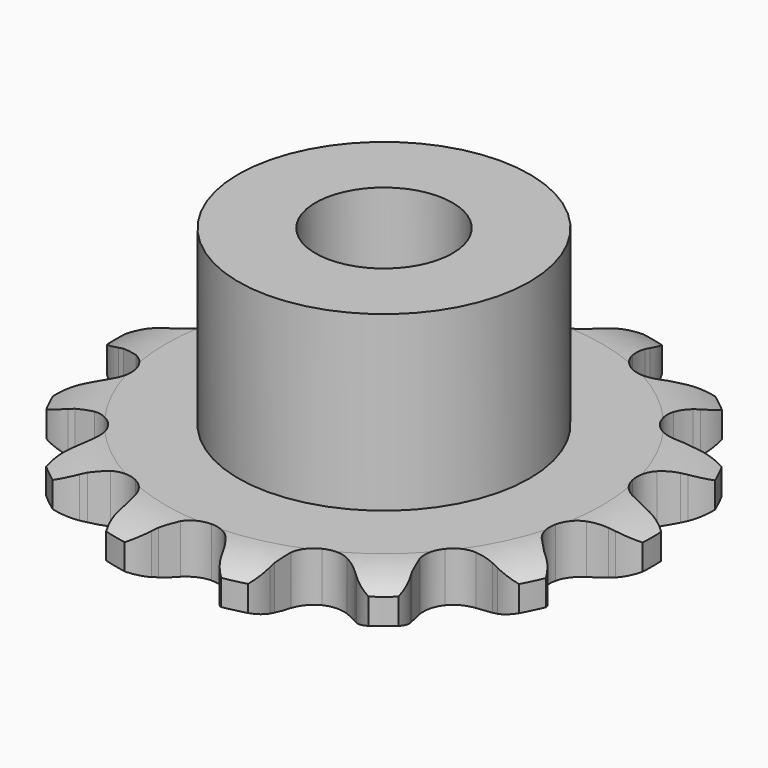
from build123d import *

# Parameters (mm, degrees)
PAD_DEPTH         = 2.9
SKETCH001_R       = 8.5
PAD001_DEPTH      = 13
SKETCH002_R       = 4
POCKET_DEPTH      = 0.0010001
POCKET_DEPTH_BACK = 13.001


with BuildPart() as part:
    # Sprocket → Pad (new body)
    with BuildSketch(Plane.XY):
        with BuildLine():
            ThreePointArc((-3.6126284311, 15.8279593349), (-2.6776738148, 15.2786261276), (-2.0294363846, 14.4093187359))
            Line((-2.0294363846, 14.4093187359), (-1.8775252933, 14.0877408394))
            ThreePointArc((-1.8775252933, 14.0877408394), (-1.6225737693, 13.6237117178), (-1.312971691, 13.1942121738))
            ThreePointArc((-1.312971691, 13.1942121738), (-0.7264776979, 12.7354038267), (0, 12.5719704836))
            ThreePointArc((0, 12.5719704836), (0.7264776979, 12.7354038267), (1.312971691, 13.1942121738))
            ThreePointArc((1.312971691, 13.1942121738), (1.6225737693, 13.6237117178), (1.8775252933, 14.0877408394))
            Line((1.8775252933, 14.0877408394), (2.0294363846, 14.4093187359))
            ThreePointArc((2.0294363846, 14.4093187359), (2.6776738148, 15.2786261276), (3.6126284311, 15.8279593349))
            ThreePointArc((3.6126284311, 15.8279593349), (4.2166466873, 14.9273656122), (4.4235100893, 13.8628870356))
            Line((4.4235100893, 13.8628870356), (4.4208498331, 13.5072436099))
            ThreePointArc((4.4208498331, 13.5072436099), (4.4492185287, 12.978548497), (4.5418074947, 12.4572514717))
            ThreePointArc((4.5418074947, 12.4572514717), (4.8711508425, 11.789409228), (5.4547735615, 11.3269540139))
            ThreePointArc((5.4547735615, 11.3269540139), (6.1802184206, 11.1589955081), (6.9077007307, 11.3178973384))
            Line((6.9077007307, 11.3178973384), (7.8040335091, 11.8779882208))
            ThreePointArc((7.8040335091, 11.8779882208), (7.9399352126, 11.9927329972), (8.0804280932, 12.1018081419))
            ThreePointArc((8.0804280932, 12.1018081419), (9.0416481784, 12.6037673584), (10.1223599266, 12.6930378714))
            ThreePointArc((10.1223599266, 12.6930378714), (10.2758085992, 11.6195572652), (10.0003261393, 10.5707405407))
            Line((10.0003261393, 10.5707405407), (9.843621432, 10.251471128))
            ThreePointArc((9.843621432, 10.251471128), (9.6397885311, 9.762824575), (9.4970260044, 9.2529793375))
            ThreePointArc((9.4970260044, 9.2529793375), (9.5039882178, 8.5083775441), (9.8291623207, 7.8384953858))
            ThreePointArc((9.8291623207, 7.8384953858), (10.4098910896, 7.372411273), (11.1342749233, 7.1999341303))
            Line((11.1342749233, 7.1999341303), (12.1848571782, 7.3156543611))
            ThreePointArc((12.1848571782, 7.3156543611), (12.3570862747, 7.3600702932), (12.530991918, 7.3973860264))
            ThreePointArc((12.530991918, 7.3973860264), (13.6148132317, 7.4325778888), (14.6272338959, 7.0441045876))
            ThreePointArc((14.6272338959, 7.0441045876), (14.2997205935, 6.0103530972), (13.5964549515, 5.1849292402))
            Line((13.5964549515, 5.1849292402), (13.3167430821, 4.9652690632))
            ThreePointArc((13.3167430821, 4.9652690632), (12.9210801906, 4.6134535127), (12.5712420405, 4.2160411651))
            ThreePointArc((12.5712420405, 4.2160411651), (12.2544441677, 3.5421573391), (12.2567649356, 2.7975266137))
            ThreePointArc((12.2567649356, 2.7975266137), (12.5777571594, 2.1256305686), (13.1555694144, 1.6559356663))
            Line((13.1555694144, 1.6559356663), (14.1523204457, 1.3043654346))
            ThreePointArc((14.1523204457, 1.3043654346), (14.3267648505, 1.2696554022), (14.4996391109, 1.2278208854))
            ThreePointArc((14.4996391109, 1.2278208854), (15.4913975497, 0.7892752137), (16.235004801, 0))
            ThreePointArc((16.235004801, 0), (15.4913975497, -0.7892752137), (14.4996391109, -1.2278208854))
            Line((14.4996391109, -1.2278208854), (14.1523204457, -1.3043654346))
            ThreePointArc((14.1523204457, -1.3043654346), (13.6431934518, -1.4496685981), (13.1555694144, -1.6559356663))
            ThreePointArc((13.1555694144, -1.6559356663), (12.5777571594, -2.1256305686), (12.2567649356, -2.7975266137))
            ThreePointArc((12.2567649356, -2.7975266137), (12.2544441677, -3.5421573391), (12.5712420405, -4.2160411651))
            Line((12.5712420405, -4.2160411651), (13.3167430821, -4.9652690632))
            ThreePointArc((13.3167430821, -4.9652690632), (13.4588519413, -5.0722303124), (13.5964549515, -5.1849292402))
            ThreePointArc((13.5964549515, -5.1849292402), (14.2997205935, -6.0103530972), (14.6272338959, -7.0441045876))
            ThreePointArc((14.6272338959, -7.0441045876), (13.6148132317, -7.4325778888), (12.530991918, -7.3973860264))
            Line((12.530991918, -7.3973860264), (12.1848571782, -7.3156543611))
            ThreePointArc((12.1848571782, -7.3156543611), (11.663104927, -7.225666064), (11.1342749233, -7.1999341303))
            ThreePointArc((11.1342749233, -7.1999341303), (10.4098910896, -7.372411273), (9.8291623207, -7.8384953858))
            ThreePointArc((9.8291623207, -7.8384953858), (9.5039882178, -8.5083775441), (9.4970260044, -9.2529793375))
            Line((9.4970260044, -9.2529793375), (9.843621432, -10.251471128))
            ThreePointArc((9.843621432, -10.251471128), (9.9252483432, -10.4094986069), (10.0003261393, -10.5707405407))
            ThreePointArc((10.0003261393, -10.5707405407), (10.2758085992, -11.6195572652), (10.1223599266, -12.6930378714))
            ThreePointArc((10.1223599266, -12.6930378714), (9.0416481784, -12.6037673584), (8.0804280932, -12.1018081419))
            Line((8.0804280932, -12.1018081419), (7.8040335091, -11.8779882208))
            ThreePointArc((7.8040335091, -11.8779882208), (7.3729954328, -11.570531749), (6.9077007307, -11.3178973384))
            ThreePointArc((6.9077007307, -11.3178973384), (6.1802184206, -11.1589955081), (5.4547735615, -11.3269540139))
            ThreePointArc((5.4547735615, -11.3269540139), (4.8711508425, -11.789409228), (4.5418074947, -12.4572514717))
            Line((4.5418074947, -12.4572514717), (4.4208498331, -13.5072436099))
            ThreePointArc((4.4208498331, -13.5072436099), (4.4258275856, -13.6850380381), (4.4235100893, -13.8628870356))
            ThreePointArc((4.4235100893, -13.8628870356), (4.2166466873, -14.9273656122), (3.6126284311, -15.8279593349))
            ThreePointArc((3.6126284311, -15.8279593349), (2.6776738148, -15.2786261276), (2.0294363846, -14.4093187359))
            Line((2.0294363846, -14.4093187359), (1.8775252933, -14.0877408394))
            ThreePointArc((1.8775252933, -14.0877408394), (1.6225737693, -13.6237117178), (1.312971691, -13.1942121738))
            ThreePointArc((1.312971691, -13.1942121738), (0.7264776979, -12.7354038267), (0, -12.5719704836))
            ThreePointArc((0, -12.5719704836), (-0.7264776979, -12.7354038267), (-1.312971691, -13.1942121738))
            Line((-1.312971691, -13.1942121738), (-1.8775252933, -14.0877408394))
            ThreePointArc((-1.8775252933, -14.0877408394), (-1.9501826046, -14.2500878499), (-2.0294363846, -14.4093187359))
            ThreePointArc((-2.0294363846, -14.4093187359), (-2.6776738148, -15.2786261276), (-3.6126284311, -15.8279593349))
            ThreePointArc((-3.6126284311, -15.8279593349), (-4.2166466873, -14.9273656122), (-4.4235100893, -13.8628870356))
            Line((-4.4235100893, -13.8628870356), (-4.4208498331, -13.5072436099))
            ThreePointArc((-4.4208498331, -13.5072436099), (-4.4492185287, -12.978548497), (-4.5418074947, -12.4572514717))
            ThreePointArc((-4.5418074947, -12.4572514717), (-4.8711508425, -11.789409228), (-5.4547735615, -11.3269540139))
            ThreePointArc((-5.4547735615, -11.3269540139), (-6.1802184206, -11.1589955081), (-6.9077007307, -11.3178973384))
            Line((-6.9077007307, -11.3178973384), (-7.8040335091, -11.8779882208))
            ThreePointArc((-7.8040335091, -11.8779882208), (-7.9399352126, -11.9927329972), (-8.0804280932, -12.1018081419))
            ThreePointArc((-8.0804280932, -12.1018081419), (-9.0416481784, -12.6037673584), (-10.1223599266, -12.6930378714))
            ThreePointArc((-10.1223599266, -12.6930378714), (-10.2758085992, -11.6195572652), (-10.0003261393, -10.5707405407))
            Line((-10.0003261393, -10.5707405407), (-9.843621432, -10.251471128))
            ThreePointArc((-9.843621432, -10.251471128), (-9.6397885311, -9.762824575), (-9.4970260044, -9.2529793375))
            ThreePointArc((-9.4970260044, -9.2529793375), (-9.5039882178, -8.5083775441), (-9.8291623207, -7.8384953858))
            ThreePointArc((-9.8291623207, -7.8384953858), (-10.4098910896, -7.372411273), (-11.1342749233, -7.1999341303))
            Line((-11.1342749233, -7.1999341303), (-12.1848571782, -7.3156543611))
            ThreePointArc((-12.1848571782, -7.3156543611), (-12.3570862747, -7.3600702932), (-12.530991918, -7.3973860264))
            ThreePointArc((-12.530991918, -7.3973860264), (-13.6148132317, -7.4325778888), (-14.6272338959, -7.0441045876))
            ThreePointArc((-14.6272338959, -7.0441045876), (-14.2997205935, -6.0103530972), (-13.5964549515, -5.1849292402))
            Line((-13.5964549515, -5.1849292402), (-13.3167430821, -4.9652690632))
            ThreePointArc((-13.3167430821, -4.9652690632), (-12.9210801906, -4.6134535127), (-12.5712420405, -4.2160411651))
            ThreePointArc((-12.5712420405, -4.2160411651), (-12.2544441677, -3.5421573391), (-12.2567649356, -2.7975266137))
            ThreePointArc((-12.2567649356, -2.7975266137), (-12.5777571594, -2.1256305686), (-13.1555694144, -1.6559356663))
            Line((-13.1555694144, -1.6559356663), (-14.1523204457, -1.3043654346))
            ThreePointArc((-14.1523204457, -1.3043654346), (-14.3267648505, -1.2696554022), (-14.4996391109, -1.2278208854))
            ThreePointArc((-14.4996391109, -1.2278208854), (-15.4913975497, -0.7892752137), (-16.235004801, 0))
            ThreePointArc((-16.235004801, 0), (-15.4913975497, 0.7892752137), (-14.4996391109, 1.2278208854))
            Line((-14.4996391109, 1.2278208854), (-14.1523204457, 1.3043654346))
            ThreePointArc((-14.1523204457, 1.3043654346), (-13.6431934518, 1.4496685981), (-13.1555694144, 1.6559356663))
            ThreePointArc((-13.1555694144, 1.6559356663), (-12.5777571594, 2.1256305686), (-12.2567649356, 2.7975266137))
            ThreePointArc((-12.2567649356, 2.7975266137), (-12.2544441677, 3.5421573391), (-12.5712420405, 4.2160411651))
            Line((-12.5712420405, 4.2160411651), (-13.3167430821, 4.9652690632))
            ThreePointArc((-13.3167430821, 4.9652690632), (-13.4588519413, 5.0722303124), (-13.5964549515, 5.1849292402))
            ThreePointArc((-13.5964549515, 5.1849292402), (-14.2997205935, 6.0103530972), (-14.6272338959, 7.0441045876))
            ThreePointArc((-14.6272338959, 7.0441045876), (-13.6148132317, 7.4325778888), (-12.530991918, 7.3973860264))
            Line((-12.530991918, 7.3973860264), (-12.1848571782, 7.3156543611))
            ThreePointArc((-12.1848571782, 7.3156543611), (-11.663104927, 7.225666064), (-11.1342749233, 7.1999341303))
            ThreePointArc((-11.1342749233, 7.1999341303), (-10.4098910896, 7.372411273), (-9.8291623207, 7.8384953858))
            ThreePointArc((-9.8291623207, 7.8384953858), (-9.5039882178, 8.5083775441), (-9.4970260044, 9.2529793375))
            Line((-9.4970260044, 9.2529793375), (-9.843621432, 10.251471128))
            ThreePointArc((-9.843621432, 10.251471128), (-9.9252483432, 10.4094986069), (-10.0003261393, 10.5707405407))
            ThreePointArc((-10.0003261393, 10.5707405407), (-10.2758085992, 11.6195572652), (-10.1223599266, 12.6930378714))
            ThreePointArc((-10.1223599266, 12.6930378714), (-9.0416481784, 12.6037673584), (-8.0804280932, 12.1018081419))
            Line((-8.0804280932, 12.1018081419), (-7.8040335091, 11.8779882208))
            ThreePointArc((-7.8040335091, 11.8779882208), (-7.3729954328, 11.570531749), (-6.9077007307, 11.3178973384))
            ThreePointArc((-6.9077007307, 11.3178973384), (-6.1802184206, 11.1589955081), (-5.4547735615, 11.3269540139))
            ThreePointArc((-5.4547735615, 11.3269540139), (-4.8711508425, 11.789409228), (-4.5418074947, 12.4572514717))
            Line((-4.5418074947, 12.4572514717), (-4.4208498331, 13.5072436099))
            ThreePointArc((-4.4208498331, 13.5072436099), (-4.4258275856, 13.6850380381), (-4.4235100893, 13.8628870356))
            ThreePointArc((-4.4235100893, 13.8628870356), (-4.2166466873, 14.9273656122), (-3.6126284311, 15.8279593349))
        make_face()
    extrude(amount=PAD_DEPTH)

    # Sketch → Groove (revolve, cut)
    with BuildSketch(Plane.XZ):
        with BuildLine():
            Line((12.7396735578, 0), (15.65, 0))
            Line((18.5603264422, 0), (15.65, 0))
            Line((18.5603264422, 2.9), (18.5603264422, 0))
            Line((15.65, 2.9), (18.5603264422, 2.9))
            Line((12.7396735578, 2.9), (15.65, 2.9))
            ThreePointArc((15.65, 2.2), (14.2363365125, 2.7225396744), (12.7396735578, 2.9))
            Line((15.65, 0.7), (15.65, 2.2))
            ThreePointArc((12.7396735578, 0), (14.2363365125, 0.1774603256), (15.65, 0.7))
        make_face()
    revolve(axis=Axis((0, 0, 0), (0, 0, 1)), mode=Mode.SUBTRACT)

    # Sketch001 → Pad001 (join)
    with BuildSketch(Plane.XY):
        Circle(SKETCH001_R)
    extrude(amount=PAD001_DEPTH)

    # Sketch002 → Pocket (cut, two sides)
    with BuildSketch(Plane.XY) as pocket_sk:
        Circle(SKETCH002_R)
    extrude(amount=-POCKET_DEPTH, mode=Mode.SUBTRACT)
    extrude(pocket_sk.sketch, amount=POCKET_DEPTH_BACK, mode=Mode.SUBTRACT)


solid = part.part
